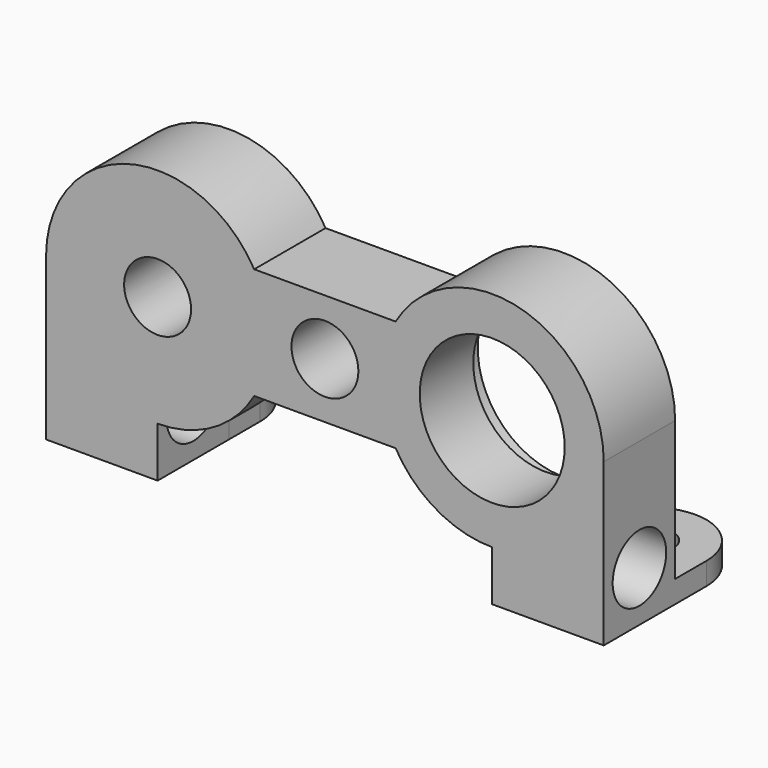
from build123d import *

# Parameters (mm, degrees)
SKETCH002_R     = 2
SKETCH002_R_2   = 6.5
SKETCH002_R_3   = 3
PAD_DEPTH       = 8
SKETCH003_R     = 7.7
POCKET_DEPTH    = 2
SKETCH004_R     = 3
POCKET001_DEPTH = 31
SKETCH005_R     = 2
PAD001_DEPTH    = 2
SKETCH007_R     = 3
POCKET002_DEPTH = 11


with BuildPart() as part:
    # Sketch002 → Pad (new body)
    with BuildSketch(Plane.XZ):
        with BuildLine():
            Line((-6.339749, 5.000001), (6.339746, 5.000001))
            ThreePointArc((25.000002, 0), (17.588192, 9.659262), (6.339746, 5.000001))
            Line((25.000002, -14.499996), (25.000002, 0))
            Line((15.000002, -14.499996), (25.000002, -14.499996))
            Line((15.000002, -9.999996), (15.000002, -14.499996))
            ThreePointArc((6.339751, -5.000001), (10.000004, -8.660251), (15.000002, -9.999996))
            Line((-6.339746, -5.000001), (6.339751, -5.000001))
            ThreePointArc((-15, -10), (-10, -8.660255), (-6.339746, -5.000001))
            Line((-15, -10), (-15, -14.499996))
            Line((-25, -14.499996), (-15, -14.499996))
            Line((-25, 0), (-25, -14.499996))
            ThreePointArc((-6.339749, 5.000001), (-17.588192, 9.659257), (-25, 0))
        make_face()
        with Locations((-15, 0)):
            Circle(SKETCH002_R, mode=Mode.SUBTRACT)
        with Locations((15.000002, 4e-06)):
            Circle(SKETCH002_R_2, mode=Mode.SUBTRACT)
        Circle(SKETCH002_R_3, mode=Mode.SUBTRACT)
    extrude(amount=PAD_DEPTH)

    # Sketch003 (on Face16 of Pad) → Pocket (cut)
    with BuildSketch(Plane(origin=(0, 0, 0), x_dir=(1, 0, 0), z_dir=(0, 1, 0))):
        with Locations((15.000002, -4e-06)):
            Circle(SKETCH003_R)
    extrude(amount=-POCKET_DEPTH, mode=Mode.SUBTRACT)

    # Sketch004 → Pocket001 (cut, symmetric)
    with BuildSketch(Plane.YZ):
        with Locations((-4, -10)):
            Circle(SKETCH004_R)
    extrude(amount=POCKET001_DEPTH, both=True, mode=Mode.SUBTRACT)

    # Sketch005 → Pad001 (join)
    with BuildSketch(Plane.XY.offset(-14.5)):
        with BuildLine():
            Line((-25.000002, 0), (-15.000002, 0))
            Line((-15.000002, 0), (-15.000002, 3.5))
            ThreePointArc((-15.000002, 3.5), (-20.000002, 8.5), (-25.000002, 3.5))
            Line((-25.000002, 0), (-25.000002, 3.5))
        make_face()
        with Locations((-20.000002, 3.5)):
            Circle(SKETCH005_R, mode=Mode.SUBTRACT)
        with BuildLine():
            Line((15.000002, 0), (25.000002, 0))
            Line((25.000002, 0), (25.000002, 3.5))
            ThreePointArc((25.000002, 3.5), (20.000002, 8.5), (15.000002, 3.5))
            Line((15.000002, 0), (15.000002, 3.5))
        make_face()
        with Locations((20.000002, 3.5)):
            Circle(SKETCH005_R, mode=Mode.SUBTRACT)
    extrude(amount=PAD001_DEPTH)

    # Sketch007 → Pocket002 (cut)
    with BuildSketch(Plane.XZ.offset(2)):
        with Locations((-15, 0)):
            Circle(SKETCH007_R)
    extrude(amount=POCKET002_DEPTH, mode=Mode.SUBTRACT)


solid = part.part
